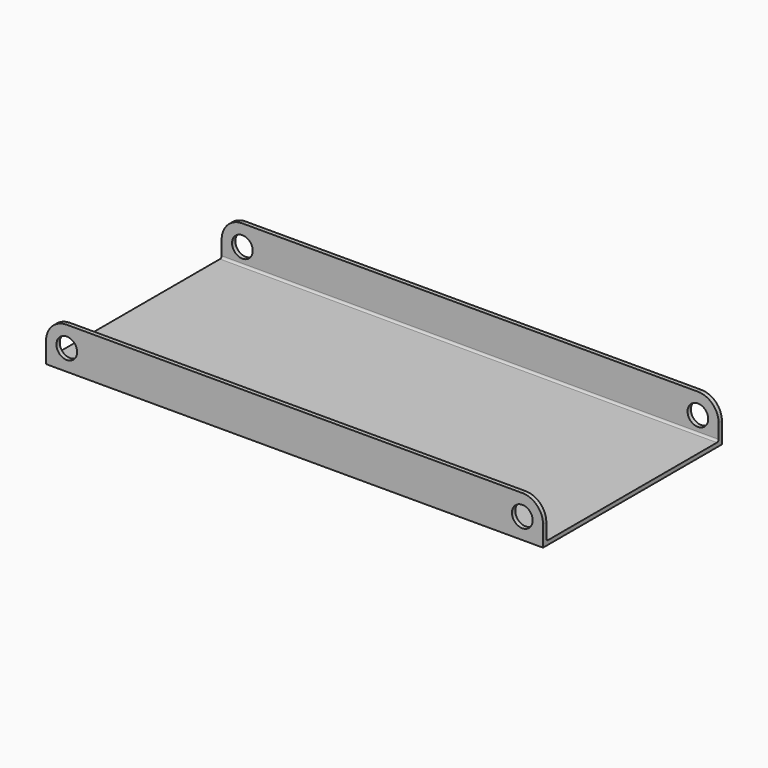
from build123d import *

# Parameters (mm, degrees)
F0_R     = 3.175
F1_DEPTH = 68.58
F4_DEPTH = 177.801


with BuildPart() as f1:
    # F0 (on Front) → F1 (new body)
    with BuildSketch(Plane.XZ):
        with BuildLine():
            Line((113.2609637325, 11.7329357494), (-26.4390362675, 11.7329357494))
            ThreePointArc((-26.4390362675, 11.7329357494), (-30.929164328, 9.8730638099), (-32.7890362675, 5.3829357494))
            Line((-32.7890362675, 5.3829357494), (-32.7890362675, -0.9670642506))
            Line((-32.7890362675, -0.9670642506), (119.6109637325, -0.9670642506))
            Line((119.6109637325, -0.9670642506), (119.6109637325, 5.3829357494))
            ThreePointArc((119.6109637325, 5.3829357494), (117.7510917931, 9.8730638099), (113.2609637325, 11.7329357494))
        make_face()
        with Locations((-26.4390362675, 5.3829357494)):
            Circle(F0_R, mode=Mode.SUBTRACT)
        with Locations((113.2609637325, 5.3829357494)):
            Circle(F0_R, mode=Mode.SUBTRACT)
    extrude(amount=F1_DEPTH)

    # F3 (on offset) → F4 (cut, through all)
    with BuildSketch(Plane(origin=(-58.1890362675, 0, 0), x_dir=(0, -1, 0), z_dir=(-1, 0, 0))):
        with BuildLine():
            Line((67.31, 25.6527248076), (1.27, 25.6527248076))
            Line((1.27, 25.6527248076), (1.27, 0.9379357494))
            ThreePointArc((1.27, 0.9379357494), (1.4559871939, 0.4889229433), (1.905, 0.3029357494))
            Line((1.905, 0.3029357494), (66.675, 0.3029357494))
            ThreePointArc((66.675, 0.3029357494), (67.1240128061, 0.4889229433), (67.31, 0.9379357494))
            Line((67.31, 0.9379357494), (67.31, 25.6527248076))
        make_face()
    extrude(amount=-F4_DEPTH, mode=Mode.SUBTRACT)


solid = f1.part
